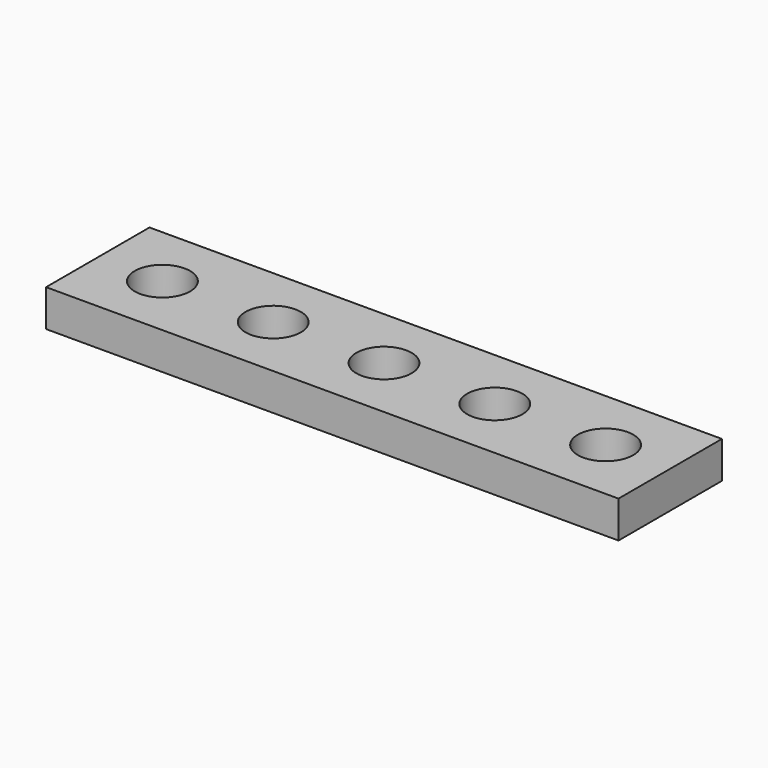
from build123d import *

# Parameters (mm, degrees)
CYLINDER_R     = 1.5
CYLINDER_DEPTH = 6
ARRAY_X_COUNT  = 5
ARRAY_X_PITCH  = 6
BOX_W          = 31
BOX_H          = 7
BOX_DEPTH      = 2


with BuildPart() as array:
    # Cylinder → Cylinder (new body)
    with BuildSketch(Plane.XY.offset(-2)):
        Circle(CYLINDER_R)
    extrude(amount=CYLINDER_DEPTH)

    # Array X: Array ×5


with BuildPart() as array_1:
    add(array.part)
    with Locations(*[(i * ARRAY_X_PITCH, 0, 0) for i in range(1, ARRAY_X_COUNT)]):
        add(array.part)


with BuildPart() as array_2:
    # Array placement: moved
    add(array_1.part.moved(Location((0.5, 0, 0))))


with BuildPart() as array_cylinder:
    # Box → Box (new body)
    with BuildSketch(Plane(origin=(-3, -3.5, 0), x_dir=(1, 0, 0), z_dir=(0, 0, 1))):
        with Locations((15.5, 3.5)):
            Rectangle(BOX_W, BOX_H)
    extrude(amount=BOX_DEPTH)

    # Cut: cut Array
    add(array_2.part, mode=Mode.SUBTRACT)


solid = array_cylinder.part
